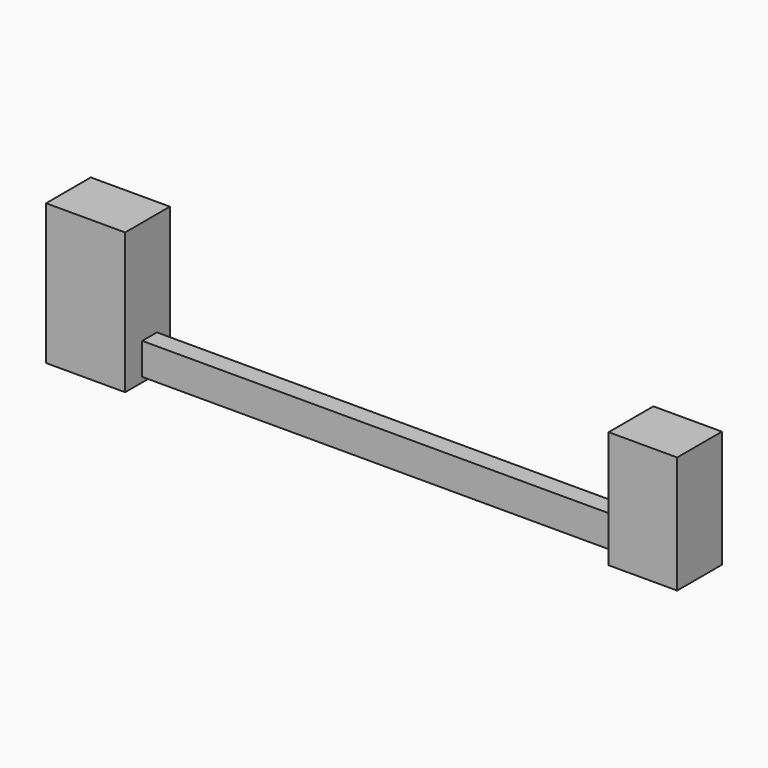
from build123d import *

# Parameters (mm, degrees)
F0_W     = 9.3324817717
F0_H     = 15.9647651017
F1_DEPTH = 7.62
F2_W     = 2.5024851784
F2_H     = 4.3162275106
F3_DEPTH = 25.4
F4_DEPTH = 25.4
F5_DEPTH = 25.4
F6_W     = 10.77144593
F6_H     = 19.1651917994
F7_DEPTH = 7.62


with BuildPart() as f1:
    # F0 (on Front) → F1 (new body)
    with BuildSketch(Plane.XZ):
        with Locations((-4.6662408859, 29.8102106899)):
            Rectangle(F0_W, F0_H)
    extrude(amount=F1_DEPTH)

    # F2 (on face) → F3 (join)
    with BuildSketch(Plane(origin=(-9.3324817717, 0, 0), x_dir=(0, -1, 0), z_dir=(-1, 0, 0))):
        with Locations((3.4680166282, 23.9859418944)):
            Rectangle(F2_W, F2_H)
    extrude(amount=F3_DEPTH)

    # F4 (add): a face of the model
    f4_faces = [f1.faces().sort_by_distance(p)[0] for p in [
        (-34.7324817717, -3.4680166282, 23.9859418944),
    ]]
    extrude(f4_faces, amount=F4_DEPTH)

    # F5 (add): a face of the model
    f5_faces = [f1.faces().sort_by_distance(p)[0] for p in [
        (-60.1324817717, -3.4680166282, 23.9859418944),
    ]]
    extrude(f5_faces, amount=F5_DEPTH)

    # F6 (on Front) → F7 (join)
    with BuildSketch(Plane.XZ):
        with Locations((-80.5792994797, 30.7407360524)):
            Rectangle(F6_W, F6_H)
    extrude(amount=F7_DEPTH)


solid = f1.part
